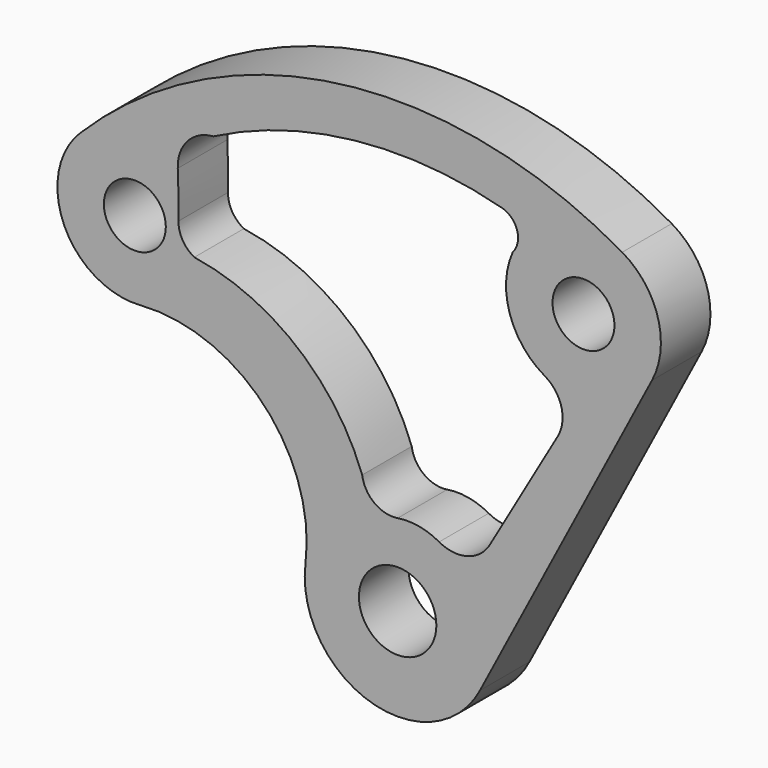
from build123d import *

# Parameters (mm, degrees)
F0_R     = 12.7
F1_DEPTH = 25.4


with BuildPart() as f1:
    # F0 (on Front) → F1 (new body)
    with BuildSketch(Plane.XZ):
        with BuildLine():
            ThreePointArc((-105.440213, 76.098159), (-54.724054, 56.469184), (-37.797935, 4.788124))
            ThreePointArc((-37.797935, 4.788124), (-28.58354, -25.191095), (0, -38.1))
            ThreePointArc((0, -38.1), (19.733421, -32.591442), (33.760663, -17.658641))
            Line((33.760663, -17.658641), (104.333886, 117.266737))
            ThreePointArc((104.333886, 117.266737), (106.690251, 140.83705), (92.075, 159.478578))
            ThreePointArc((92.075, 159.478578), (-24.036398, 182.574571), (-130.213714, 130.213714))
            ThreePointArc((-130.213714, 130.213714), (-139.513073, 107.763073), (-130.213714, 85.312433))
            ThreePointArc((-130.213714, 85.312433), (-118.831388, 78.004799), (-105.440213, 76.098159))
        make_face()
        with BuildLine():
            ThreePointArc((0, 15.875), (11.22532, 11.22532), (15.875, 0))
            ThreePointArc((15.875, 0), (-11.22532, -11.22532), (0, 15.875))
        make_face(mode=Mode.SUBTRACT)
        with Locations((-107.763073, 107.763073)):
            Circle(F0_R, mode=Mode.SUBTRACT)
        with BuildLine():
            ThreePointArc((17.011753, 30.501736), (8.760735, 33.448122), (0, 33.548198))
            ThreePointArc((0, 33.548198), (-9.556693, 35.925334), (-14.541131, 44.418657))
            ThreePointArc((-14.541131, 44.418657), (-41.266263, 81.937069), (-83.376373, 100.607971))
            ThreePointArc((-83.376373, 100.607971), (-88.168492, 105.162713), (-89.886657, 111.546911))
            ThreePointArc((-89.886657, 111.546911), (-89.905581, 121.02761), (-90.171772, 130.50459))
            ThreePointArc((-90.171772, 130.50459), (-86.184302, 141.607355), (-75.583098, 146.782851))
            ThreePointArc((-75.583098, 146.782851), (-17.617296, 164.157366), (42.715256, 159.478578))
            ThreePointArc((42.715256, 159.478578), (48.987823, 153.432961), (47.199631, 144.906711))
            ThreePointArc((47.199631, 144.906711), (46.002172, 122.176475), (60.325, 104.485965))
            ThreePointArc((60.325, 104.485965), (67.14271, 95.600952), (65.680907, 84.49745))
            Line((65.680907, 84.49745), (37.821481, 36.243509))
            ThreePointArc((37.821481, 36.243509), (28.593318, 29.107942), (17.011753, 30.501736))
        make_face(mode=Mode.SUBTRACT)
        with Locations((76.2, 131.982272)):
            Circle(F0_R, mode=Mode.SUBTRACT)
    extrude(amount=F1_DEPTH)


solid = f1.part
